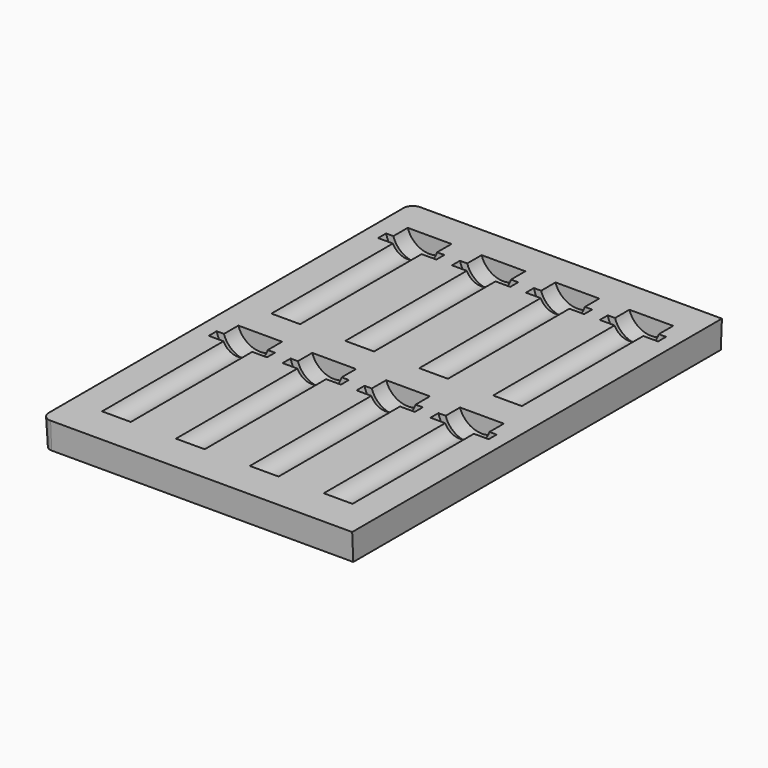
from build123d import *

# Parameters (mm, degrees)
F1_DEPTH  = 17
F1_TAPER  = -3
F4_DEPTH  = 25
F16_W     = 246.069
F16_H     = 9.169
F17_DEPTH = 155.8919323478


with BuildPart() as f1:
    # F0 (on Top) → F1 (new body)
    with BuildSketch(Plane.XY):
        with BuildLine():
            ThreePointArc((0, 4), (1.1715728753, 1.1715728753), (4, 0))
            Line((4, 0), (155, 0))
            Line((155, 0), (155, 230))
            Line((155, 230), (4, 230))
            ThreePointArc((4, 230), (1.1715728753, 228.8284271247), (0, 226))
            Line((0, 226), (0, 4))
        make_face()
    extrude(amount=F1_DEPTH, taper=F1_TAPER)

    # F3 (on offset) → F4 (cut)
    with BuildSketch(Plane.YZ.offset(155)):
        Polygon((-0.8909322478, 17), (0, 0), (230, 0), (230.8909322478, 17), align=None)
    extrude(amount=F4_DEPTH, mode=Mode.SUBTRACT)

    # F5 (on face) → F6 (revolve, cut)
    with BuildSketch(Plane.XY.offset(17)):
        Polygon((22, 94), (22, 18), (30, 18), (30, 94), (37, 94), (37, 99), (33.5, 99), (33.5, 108), (22, 108), (22, 99), align=None)
    revolve(axis=Axis((22, 56, 17), (0, 1, 0)), mode=Mode.SUBTRACT)

    # F5 (on face) → F7 (revolve, cut)
    with BuildSketch(Plane.XY.offset(17)):
        Polygon((59, 94), (59, 18), (67, 18), (67, 94), (74, 94), (74, 99), (70.5, 99), (70.5, 108), (59, 108), (59, 99), align=None)
    revolve(axis=Axis((59, 56, 17), (0, 1, 0)), mode=Mode.SUBTRACT)

    # F5 (on face) → F8 (revolve, cut)
    with BuildSketch(Plane.XY.offset(17)):
        Polygon((96, 94), (96, 18), (104, 18), (104, 94), (111, 94), (111, 99), (107.5, 99), (107.5, 108), (96, 108), (96, 99), align=None)
    revolve(axis=Axis((96, 56, 17), (0, 1, 0)), mode=Mode.SUBTRACT)

    # F5 (on face) → F9 (revolve, cut)
    with BuildSketch(Plane.XY.offset(17)):
        Polygon((133, 94), (133, 18), (141, 18), (141, 94), (148, 94), (148, 99), (144.5, 99), (144.5, 108), (133, 108), (133, 99), align=None)
    revolve(axis=Axis((133, 56, 17), (0, 1, 0)), mode=Mode.SUBTRACT)

    # F5 (on face) → F10 (revolve, cut)
    with BuildSketch(Plane.XY.offset(17)):
        Polygon((22, 200), (22, 124), (30, 124), (30, 200), (37, 200), (37, 205), (33.5, 205), (33.5, 214), (22, 214), (22, 205), align=None)
    revolve(axis=Axis((22, 162, 17), (0, 1, 0)), mode=Mode.SUBTRACT)

    # F5 (on face) → F11 (revolve, cut)
    with BuildSketch(Plane.XY.offset(17)):
        Polygon((59, 200), (59, 124), (67, 124), (67, 200), (74, 200), (74, 205), (70.5, 205), (70.5, 214), (59, 214), (59, 205), align=None)
    revolve(axis=Axis((59, 162, 17), (0, 1, 0)), mode=Mode.SUBTRACT)

    # F5 (on face) → F12 (revolve, cut)
    with BuildSketch(Plane.XY.offset(17)):
        Polygon((96, 200), (96, 124), (104, 124), (104, 200), (111, 200), (111, 205), (107.5, 205), (107.5, 214), (96, 214), (96, 205), align=None)
    revolve(axis=Axis((96, 162, 17), (0, 1, 0)), mode=Mode.SUBTRACT)

    # F5 (on face) → F13 (revolve, cut)
    with BuildSketch(Plane.XY.offset(17)):
        Polygon((133, 200), (133, 124), (141, 124), (141, 200), (148, 200), (148, 205), (144.5, 205), (144.5, 214), (133, 214), (133, 205), align=None)
    revolve(axis=Axis((133, 162, 17), (0, 1, 0)), mode=Mode.SUBTRACT)

    # F14 (on face) → F15 (revolve, cut)
    with BuildSketch(Plane(origin=(0, 0, 0), x_dir=(0, -1, 0), z_dir=(-0.9986295348, 0, -0.0523359562))):
        Polygon((2, 4), (-226, 4), (-231, 4), (-231, 3), (2, 3), align=None)
    revolve(axis=Axis((-0.209343825, 112, 3.994518139), (0, 1, 0)), mode=Mode.SUBTRACT)

    # F16 (on face) → F17 (cut, through all)
    with BuildSketch(Plane.YZ.offset(155)):
        with Locations((113.0345, 18.0845)):
            Rectangle(F16_W, F16_H)
    extrude(amount=-F17_DEPTH, mode=Mode.SUBTRACT)


solid = f1.part
